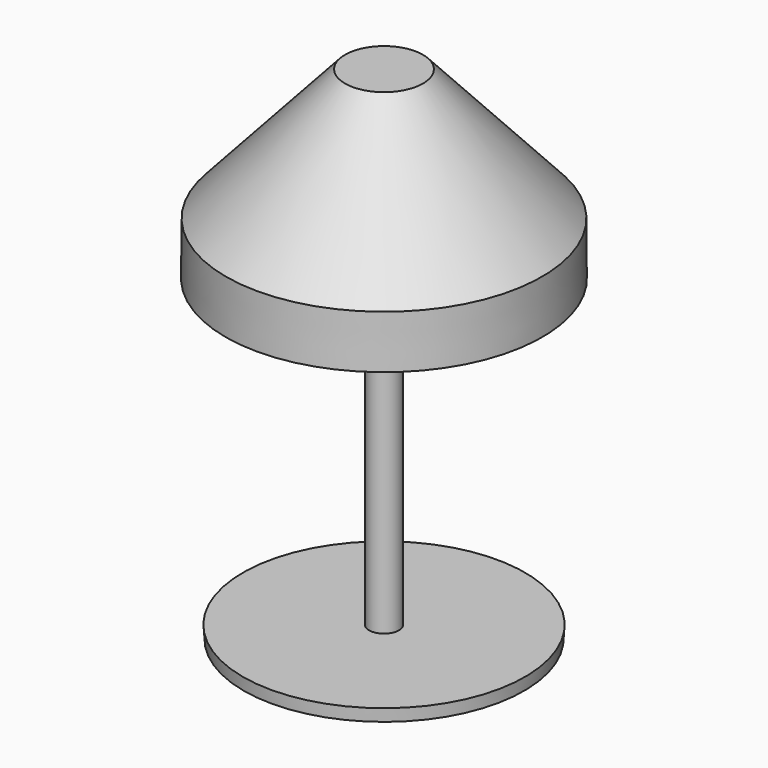
from build123d import *


with BuildPart() as part:
    # Sketch → Revolution (revolve)
    with BuildSketch(Plane.YZ):
        Polygon((0, 0), (0, 650), (-50.522072, 650), (-204.838623, 479.859444), (-205.380112, 411.197937), (-190.189499, 411.197937), (-190.189499, 462.693711), (-19.438213, 626.926208), (-19.438213, 16.230762), (-182.847931, 16.230762), (-181.744675, 0), align=None)
    revolve(axis=Axis((0, 0, 0), (0, 0, 1)))


solid = part.part
